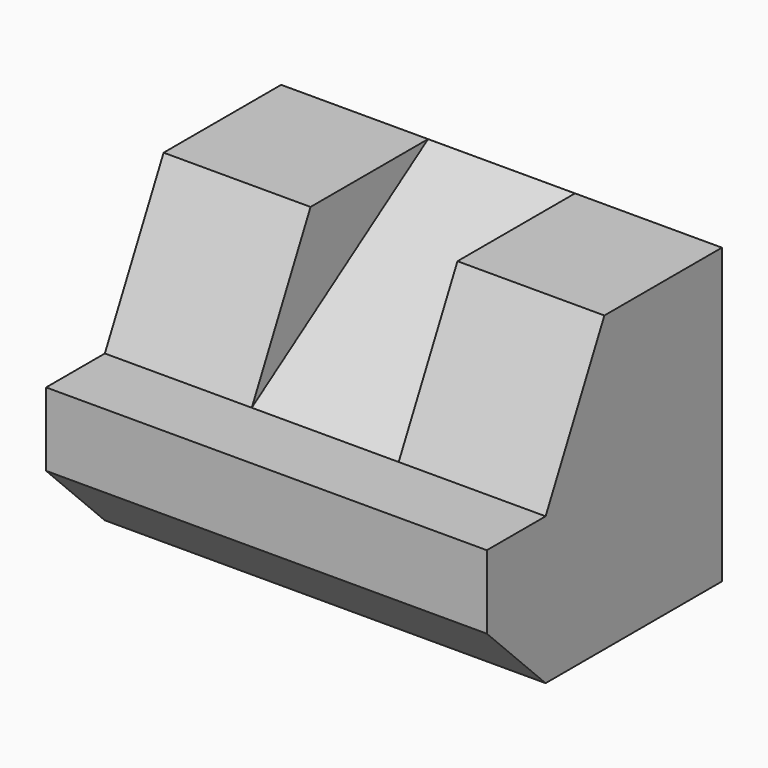
from build123d import *

# Parameters (mm, degrees)
F1_DEPTH = 76.2
F3_DEPTH = 76.2
F5_W     = 25.4
F5_H     = 45.78858
F6_DEPTH = 25.4


with BuildPart() as f1:
    # F0 (on Right) → F1 (new body)
    with BuildSketch(Plane.YZ):
        Polygon((13.522523, 16.816804), (-11.877477, 16.816804), (-24.577477, -8.583196), (-24.577477, -33.983196), (13.522523, -33.983196), align=None)
    extrude(amount=-F1_DEPTH)

    # F2 (on face) → F3 (join)
    with BuildSketch(Plane.YZ):
        Polygon((-24.577477, -33.983196), (-24.577477, -8.583196), (-37.277477, -8.583196), (-37.277477, -21.283196), align=None)
    extrude(amount=-F3_DEPTH)

    # F5 (on face) → F6 (cut)
    with BuildSketch(Plane(origin=(0, -3.600826, 5.401239), x_dir=(1, 0, 0), z_dir=(0, -0.5547, 0.83205))):
        with Locations((-38.1, -2.316508)):
            Rectangle(F5_W, F5_H)
    extrude(amount=F6_DEPTH, mode=Mode.SUBTRACT)


solid = f1.part
